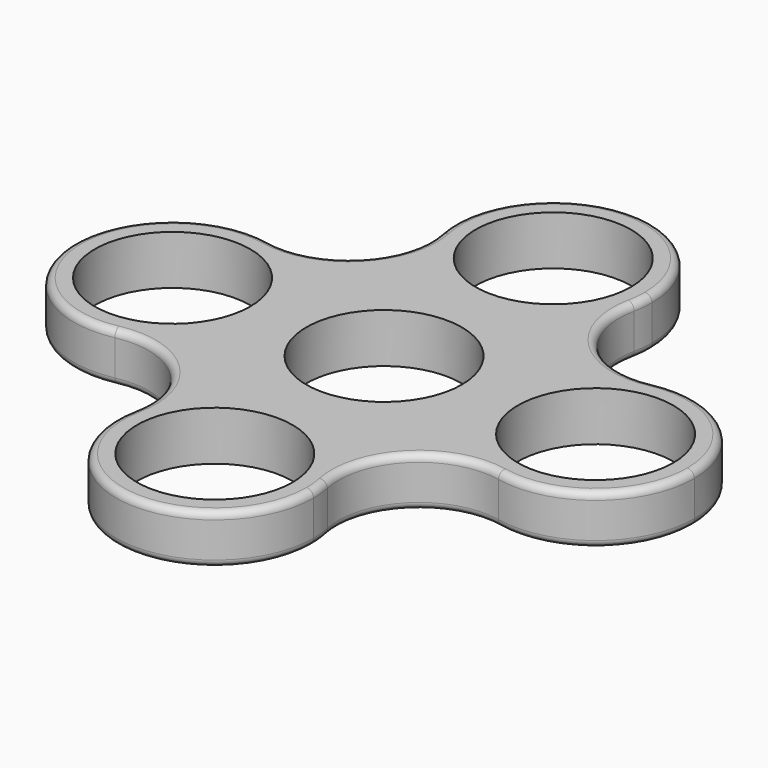
from build123d import *

# Parameters (mm, degrees)
F0_R     = 14
F0_R_2   = 11.025
F1_DEPTH = 7
F2_R     = 1


with BuildPart() as f1:
    # F0 (on Top) → F1 (new body)
    with BuildSketch(Plane.XY):
        with BuildLine():
            ThreePointArc((13.7152053553, 27.1905263726), (0, 16), (-13.7152053553, 27.1905263726))
            ThreePointArc((-13.7152053553, 27.1905263726), (-16.8267891176, 16.8267891176), (-27.1905263726, 13.7152053553))
            ThreePointArc((-27.1905263726, 13.7152053553), (-19.1525894615, 8.8506318762), (-16, 0))
            ThreePointArc((-16, 0), (-19.1525894615, -8.8506318762), (-27.1905263726, -13.7152053553))
            ThreePointArc((-27.1905263726, -13.7152053553), (-16.8267891176, -16.8267891176), (-13.7152053553, -27.1905263726))
            ThreePointArc((-13.7152053553, -27.1905263726), (0, -16), (13.7152053553, -27.1905263726))
            ThreePointArc((13.7152053553, -27.1905263726), (16.8267891176, -16.8267891176), (27.1905263726, -13.7152053553))
            ThreePointArc((27.1905263726, -13.7152053553), (16, 0), (27.1905263726, 13.7152053553))
            ThreePointArc((27.1905263726, 13.7152053553), (16.8267891176, 16.8267891176), (13.7152053553, 27.1905263726))
        make_face()
        Circle(F0_R, mode=Mode.SUBTRACT)
        Circle(F0_R)
        Circle(F0_R_2, mode=Mode.SUBTRACT)
        with BuildLine():
            ThreePointArc((44, 0), (38.8506318762, 10.8474105385), (27.1905263726, 13.7152053553))
            ThreePointArc((27.1905263726, 13.7152053553), (16, 0), (27.1905263726, -13.7152053553))
            ThreePointArc((27.1905263726, -13.7152053553), (38.8506318762, -10.8474105385), (44, 0))
        make_face()
        with Locations((30, 0)):
            Circle(F0_R_2, mode=Mode.SUBTRACT)
        with BuildLine():
            ThreePointArc((13.7152053553, -27.1905263726), (0, -16), (-13.7152053553, -27.1905263726))
            ThreePointArc((-13.7152053553, -27.1905263726), (-1.4119357327, -43.9286193676), (14, -30))
            ThreePointArc((14, -30), (13.9286193676, -28.5880642673), (13.7152053553, -27.1905263726))
        make_face()
        with Locations((0, -30)):
            Circle(F0_R_2, mode=Mode.SUBTRACT)
        with BuildLine():
            ThreePointArc((-16, 0), (-19.1525894615, 8.8506318762), (-27.1905263726, 13.7152053553))
            ThreePointArc((-27.1905263726, 13.7152053553), (-44, 0), (-27.1905263726, -13.7152053553))
            ThreePointArc((-27.1905263726, -13.7152053553), (-19.1525894615, -8.8506318762), (-16, 0))
        make_face()
        with Locations((-30, 0)):
            Circle(F0_R_2, mode=Mode.SUBTRACT)
        with BuildLine():
            ThreePointArc((13.7152053553, 27.1905263726), (13.9286193676, 28.5880642673), (14, 30))
            ThreePointArc((14, 30), (-1.4119357327, 43.9286193676), (-13.7152053553, 27.1905263726))
            ThreePointArc((-13.7152053553, 27.1905263726), (0, 16), (13.7152053553, 27.1905263726))
        make_face()
        with Locations((0, 30)):
            Circle(F0_R_2, mode=Mode.SUBTRACT)
    extrude(amount=F1_DEPTH)

    # F2
    f2_edges = [f1.edges().sort_by_distance(p)[0] for p in [
        (-13.715205, -27.190526, 3.5),
        (13.715205, -27.190526, 3.5),
        (0, -44, 0),
        (0, -44, 7),
        (27.190526, -13.715205, 3.5),
        (16.826789, -16.826789, 0),
        (16.826789, -16.826789, 7),
        (27.190526, 13.715205, 3.5),
        (44, 0, 0),
        (44, 0, 7),
        (-27.190526, 13.715205, 3.5),
        (-27.190526, -13.715205, 3.5),
        (-44, 0, 0),
        (-44, 0, 7),
        (-16.826789, -16.826789, 0),
        (-16.826789, -16.826789, 7),
        (13.715205, 27.190526, 3.5),
        (-13.715205, 27.190526, 3.5),
        (0, 44, 0),
        (0, 44, 7),
        (16.826789, 16.826789, 0),
        (16.826789, 16.826789, 7),
        (-16.826789, 16.826789, 0),
        (-16.826789, 16.826789, 7),
    ]]
    fillet(f2_edges, radius=F2_R)


solid = f1.part
